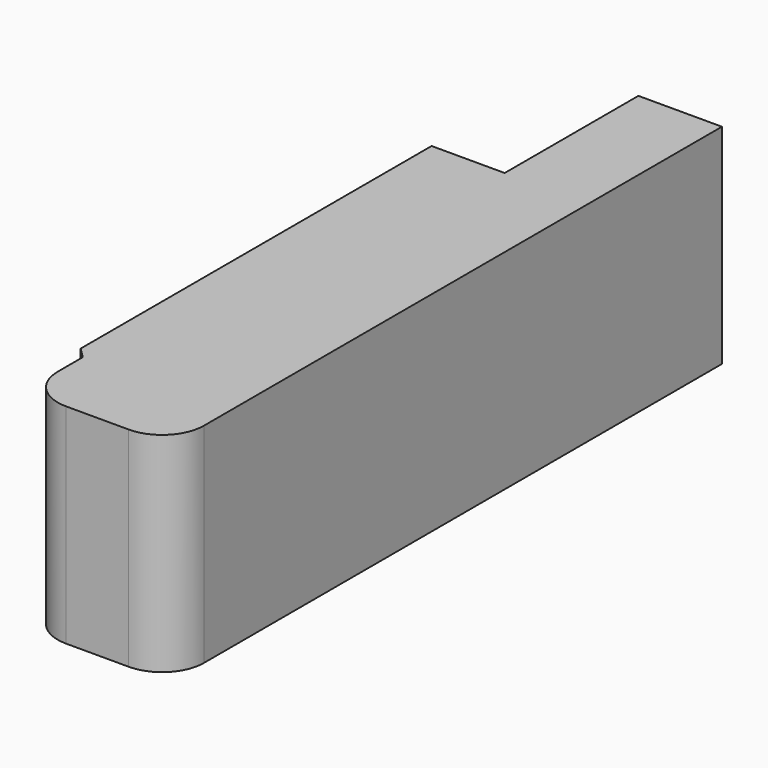
from build123d import *

# Parameters (mm, degrees)
BOX005_W        = 7
BOX005_H        = 8.5
BOX005_DEPTH    = 10
CHAMFER001_SIZE = 2.5
FILLET001_R     = 2
BOX007_W        = 3.5
BOX007_H        = 8
BOX007_DEPTH    = 10
BOX006_W        = 7.5
BOX006_H        = 30
BOX006_DEPTH    = 10
CHAMFER002_SIZE = 1


with BuildPart() as fillet001:
    # Box005 → Box005 (new body)
    with BuildSketch(Plane(origin=(0.5, -1.5, 0), x_dir=(1, 0, 0), z_dir=(0, 0, 1))):
        with Locations((3.5, 4.25)):
            Rectangle(BOX005_W, BOX005_H)
    extrude(amount=BOX005_DEPTH)

    # Chamfer001
    chamfer001_edges = [fillet001.edges().sort_by_distance(p)[0] for p in [
        (7.5, 7, 5),
    ]]
    chamfer(chamfer001_edges, length=CHAMFER001_SIZE)

    # Fillet001
    fillet001_edges = [fillet001.edges().sort_by_distance(p)[0] for p in [
        (7.5, -1.5, 5),
        (0.5, -1.5, 5),
    ]]
    fillet(fillet001_edges, radius=FILLET001_R)


with BuildPart() as cube007:
    # Box007 → Box007 (new body)
    with BuildSketch(Plane(origin=(0, 23.5, 0), x_dir=(1, 0, 0), z_dir=(0, 0, 1))):
        with Locations((1.75, 4)):
            Rectangle(BOX007_W, BOX007_H)
    extrude(amount=BOX007_DEPTH)


with BuildPart() as base_org:
    # Box006 → Box006 (new body)
    with BuildSketch(Plane(origin=(0, 1.5, 0), x_dir=(1, 0, 0), z_dir=(0, 0, 1))):
        with Locations((3.75, 15)):
            Rectangle(BOX006_W, BOX006_H)
    extrude(amount=BOX006_DEPTH)

    # Chamfer002
    chamfer002_edges = [base_org.edges().sort_by_distance(p)[0] for p in [
        (0, 1.5, 5),
    ]]
    chamfer(chamfer002_edges, length=CHAMFER002_SIZE)

    # Cut: cut Cube007
    add(cube007.part, mode=Mode.SUBTRACT)

    # Fusion001: union Fillet001
    add(fillet001.part)


solid = base_org.part
